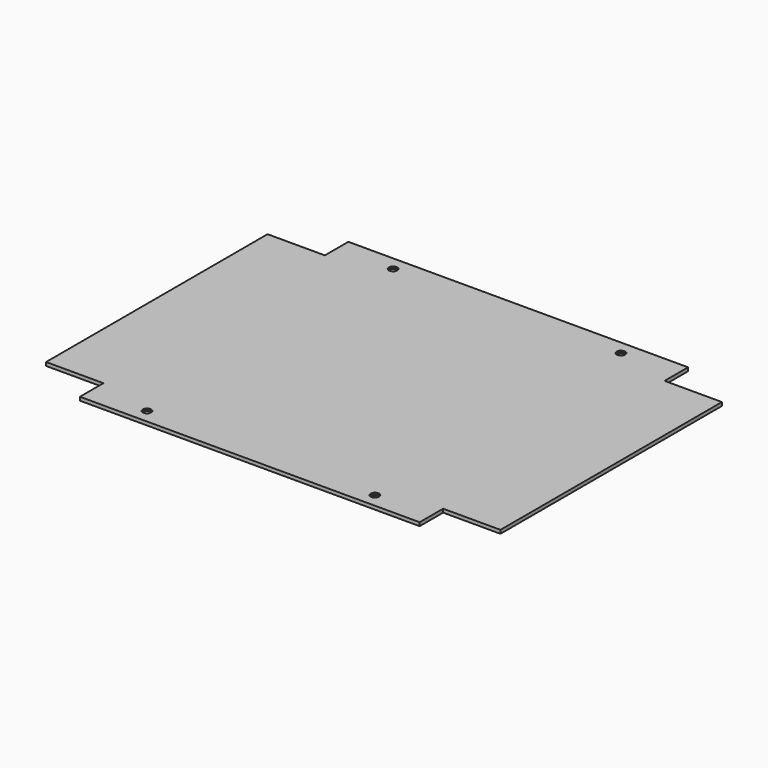
from build123d import *

# Parameters (mm, degrees)
F1_DEPTH       = 5
F3_D           = 7
F3_CBORE_D     = 12
F3_CBORE_DEPTH = 2


with BuildPart() as f1:
    # F0 (on Top) → F1 (new body)
    with BuildSketch(Plane.XY):
        Polygon((243, 240), (-243, 240), (-243, 198), (-325, 198), (-325, -198), (-243, -198), (-243, -240), (243, -240), (243, -198), (325, -198), (325, 198), (243, 198), align=None)
    extrude(amount=F1_DEPTH)

    # F3 (through all)
    with Locations(Plane.XY.offset(5)):
        with Locations((-163, 220), (-163, -220), (163, -220), (163, 220)):
            CounterBoreHole(F3_D / 2, F3_CBORE_D / 2, F3_CBORE_DEPTH)


solid = f1.part
